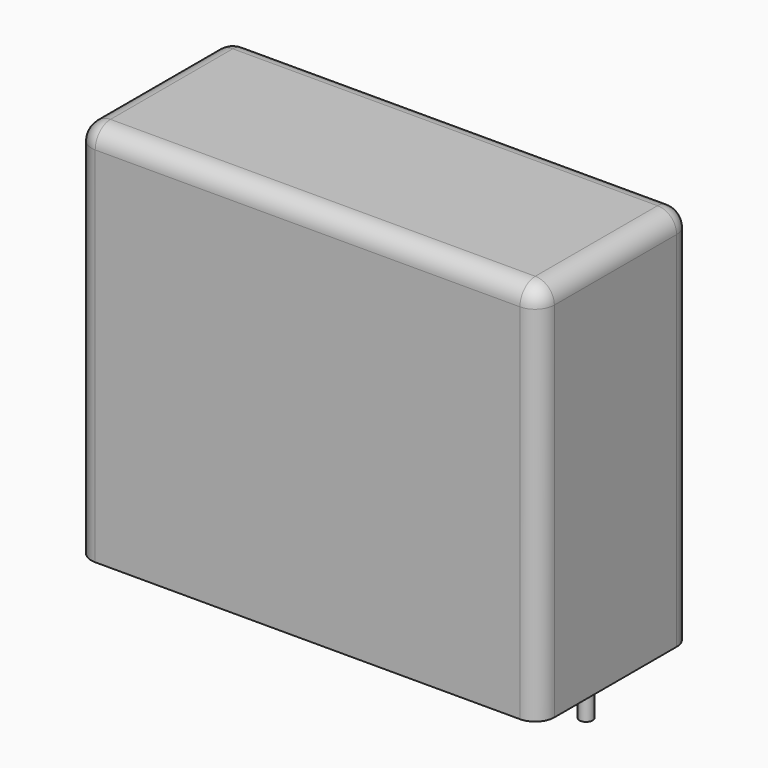
from build123d import *

# Parameters (mm, degrees)
SKETCH_W     = 31.5
SKETCH_H     = 13
PAD_DEPTH    = 26
FILLET_R     = 1.3
SKETCH001_R  = 0.45
PAD001_DEPTH = 3.2


with BuildPart() as fillet_body:
    # Sketch → Pad (new body)
    with BuildSketch(Plane.XY.offset(0.1)):
        with Locations((13.75, 0)):
            Rectangle(SKETCH_W, SKETCH_H)
    extrude(amount=PAD_DEPTH)

    # Fillet
    fillet_edges = [fillet_body.edges().sort_by_distance(p)[0] for p in [
        (-2, 0, 26.1),
        (-2, -6.5, 13.1),
        (13.75, -6.5, 26.1),
        (29.5, -6.5, 13.1),
        (29.5, 0, 26.1),
        (29.5, 6.5, 13.1),
        (13.75, 6.5, 26.1),
        (-2, 6.5, 13.1),
    ]]
    fillet(fillet_edges, radius=FILLET_R)


with BuildPart() as pad001:
    # Sketch001 → Pad001 (new body)
    with BuildSketch(Plane.XY.offset(0.5)):
        Circle(SKETCH001_R)
        with Locations((27.5, 0)):
            Circle(SKETCH001_R)
    extrude(amount=-PAD001_DEPTH)


solid = Compound([fillet_body.part, pad001.part])
